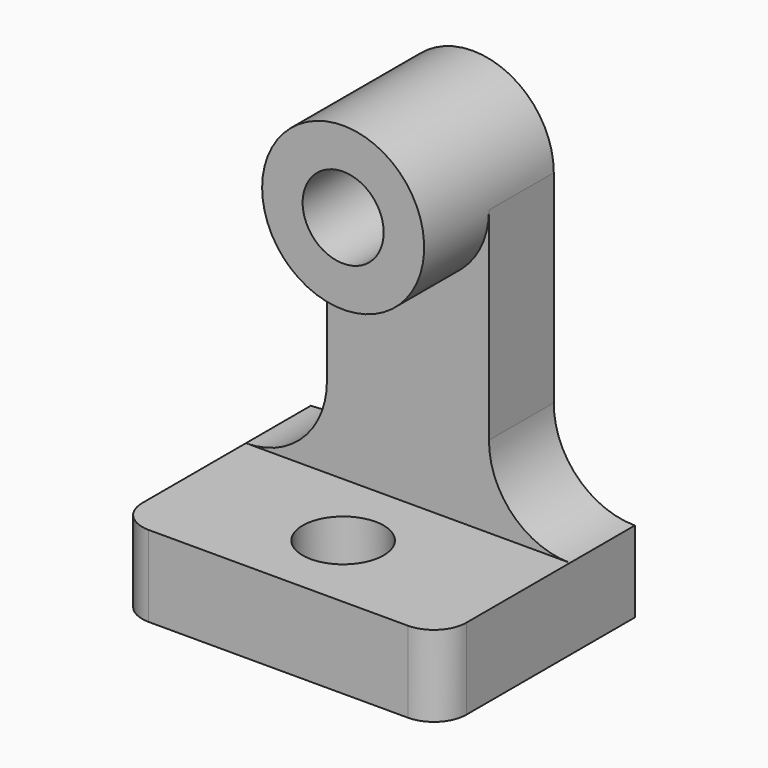
from build123d import *

# Parameters (mm, degrees)
F1_DEPTH = 25.4
F2_DEPTH = 12.7
F0_W     = 50.8
F0_H     = 12.7
F3_DEPTH = 38.1
F4_R     = 6.35
F5_DEPTH = 12.701
F6_R     = 5.08


with BuildPart() as f1:
    # F0 (on Front) → F1 (new body)
    with BuildSketch(Plane.XZ):
        with BuildLine():
            ThreePointArc((0, 57.254138), (-12.7, 69.954138), (-25.4, 57.254138))
            Line((-25.4, 57.254138), (-19.05, 57.254138))
            ThreePointArc((-19.05, 57.254138), (-12.7, 63.604138), (-6.35, 57.254138))
            Line((-6.35, 57.254138), (0, 57.254138))
        make_face()
        with BuildLine():
            Line((-19.05, 57.254138), (-25.4, 57.254138))
            ThreePointArc((-25.4, 57.254138), (-12.7, 44.554138), (0, 57.254138))
            Line((0, 57.254138), (-6.35, 57.254138))
            ThreePointArc((-6.35, 57.254138), (-12.7, 50.904138), (-19.05, 57.254138))
        make_face()
    extrude(amount=F1_DEPTH)

    # F0 (on Front) → F2 (join)
    with BuildSketch(Plane.XZ):
        with BuildLine():
            ThreePointArc((-25.4, 25.504138), (-29.082574, 16.456638), (-38.099573, 12.7))
            Line((-38.099573, 12.7), (12.700427, 12.7))
            ThreePointArc((12.700427, 12.7), (3.682874, 16.456335), (0, 25.504138))
            Line((0, 25.504138), (0, 57.254138))
            ThreePointArc((0, 57.254138), (-12.7, 44.554138), (-25.4, 57.254138))
            Line((-25.4, 57.254138), (-25.4, 25.504138))
        make_face()
    extrude(amount=F2_DEPTH)

    # F0 (on Front) → F3 (join)
    with BuildSketch(Plane.XZ):
        with Locations((-12.699573, 6.35)):
            Rectangle(F0_W, F0_H)
    extrude(amount=F3_DEPTH)

    # F4 (on face) → F5 (cut, through all)
    with BuildSketch(Plane.XY.offset(12.7)):
        with Locations((-12.7, -25.4)):
            Circle(F4_R)
    extrude(amount=-F5_DEPTH, mode=Mode.SUBTRACT)

    # F6
    f6_edges = [f1.edges().sort_by_distance(p)[0] for p in [
        (12.700427, -38.1, 6.35),
        (-38.099573, -38.1, 6.35),
    ]]
    fillet(f6_edges, radius=F6_R)


solid = f1.part
